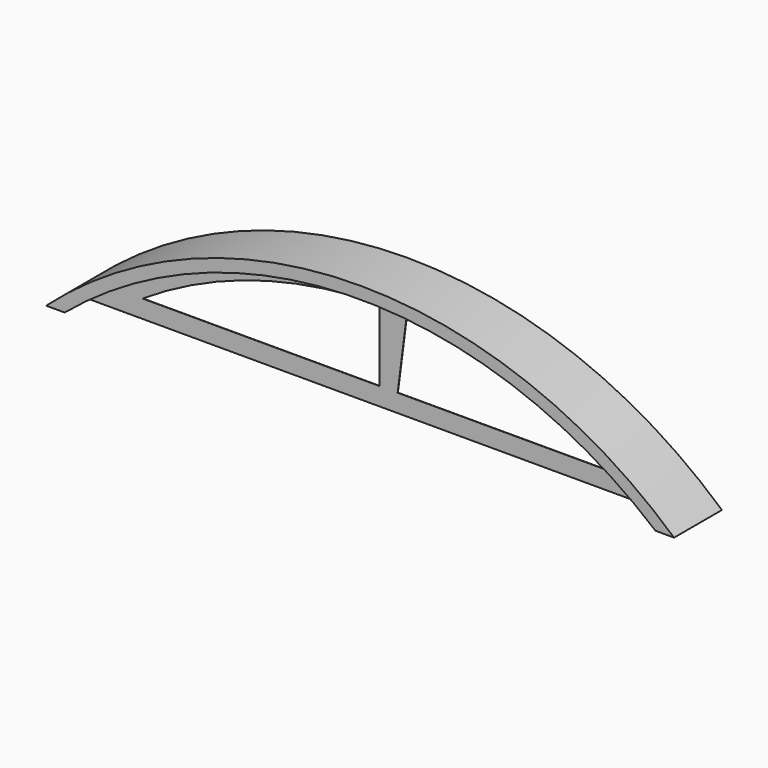
from build123d import *

# Parameters (mm, degrees)
F1_DEPTH = 100
F3_DEPTH = 100
F5_DEPTH = 100
F7_START = 50
F7_DEPTH = 0.57


with BuildPart() as f1:
    # F0 (on Front) → F1 (new body)
    with BuildSketch(Plane.XZ):
        with BuildLine():
            Line((547.8902823917, 0), (548.1072823917, 0))
            ThreePointArc((548.1072823917, 0), (23.1072823917, 200.338842807), (-501.8927176083, 0))
            Line((-501.8927176083, 0), (-501.6757176083, 0))
            ThreePointArc((-501.6757176083, 0), (23.1072823917, 200.1942967494), (547.8902823917, 0))
        make_face()
    extrude(amount=F1_DEPTH)


with BuildPart() as f3:
    # F2 (on Front) → F3 (new body)
    with BuildSketch(Plane.XZ):
        with BuildLine():
            Line((517.3545078457, 0), (547.8902823917, 0))
            ThreePointArc((547.8902823917, 0), (23.1072823917, 200.1942967494), (-501.6757176083, 0))
            Line((-501.6757176083, 0), (-471.1399430623, 0))
            ThreePointArc((-471.1399430623, 0), (23.1072823917, 180.1942967494), (517.3545078457, 0))
        make_face()
    extrude(amount=F3_DEPTH)


with BuildPart() as f5:
    # F4 (on Front) → F5 (new body)
    with BuildSketch(Plane.XZ):
        with BuildLine():
            Line((517.0437065363, 0), (517.3545078457, 0))
            ThreePointArc((517.3545078457, 0), (23.1072823917, 180.1942967494), (-471.1399430623, 0))
            Line((-471.1399430623, 0), (-470.829141753, 0))
            ThreePointArc((-470.829141753, 0), (23.1072823917, 179.9942967494), (517.0437065363, 0))
        make_face()
    extrude(amount=F5_DEPTH)


with BuildPart() as f7:
    # F6 (on Front) → F7 (new body)
    with BuildSketch(Plane.XZ.offset(F7_START)):
        with BuildLine():
            ThreePointArc((517.0437065363, 0), (23.1072823917, 179.9942967494), (-470.829141753, 0))
            Line((-470.829141753, 0), (517.0437065363, 0))
        make_face()
        with BuildLine():
            Line((16.369633609, 30), (-380.1869244123, 30))
            ThreePointArc((-380.1869244123, 30), (-190.5029764681, 118.3915516923), (16.369633609, 149.9635284776))
            Line((16.369633609, 149.9635284776), (16.369633609, 30))
        make_face(mode=Mode.SUBTRACT)
        with BuildLine():
            ThreePointArc((61.6449337647, 148.9870302594), (251.8939211351, 113.62129558), (426.4014891957, 30))
            Line((426.4014891957, 30), (46.369633609, 30))
            Line((46.369633609, 30), (61.6449337647, 148.9870302594))
        make_face(mode=Mode.SUBTRACT)
    extrude(amount=F7_DEPTH)


solid = Compound([f1.part, f3.part, f5.part, f7.part])
